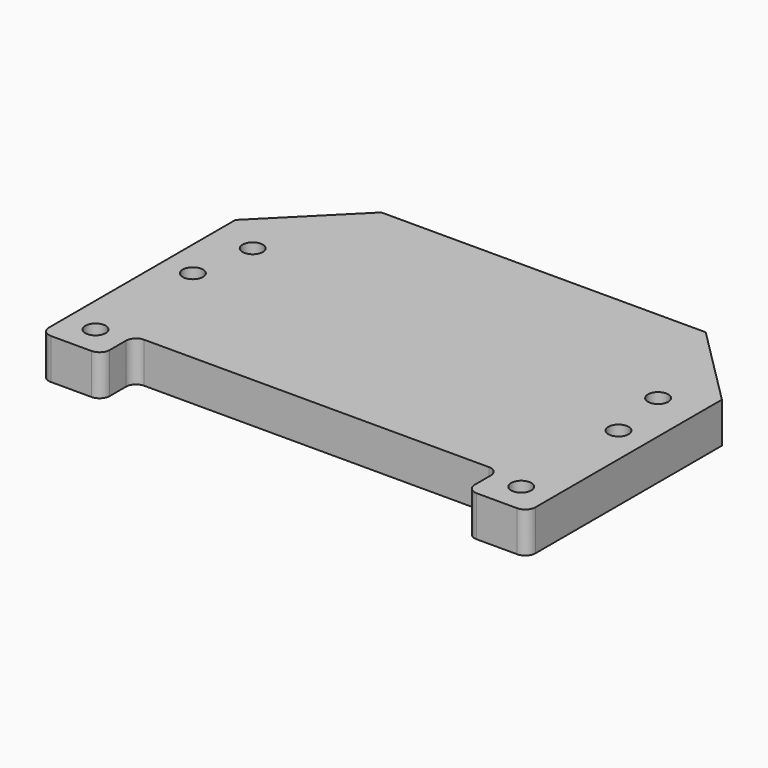
from build123d import *

# Parameters (mm, degrees)
F0_W           = 304.8
F0_H           = 203.2
F1_DEPTH       = 25.4
F3_SIZE        = 50.8
F4_W           = 228.6
F4_H           = 25.4
F5_DEPTH       = 25.4
F6_R           = 6.35
F8_D           = 9.525
F8_CBORE_D     = 12.7
F8_CBORE_DEPTH = 12.7
F10_D          = 12.7
F10_DEPTH      = 12.7
F10_TIP        = 3.8154649308


with BuildPart() as f1:
    # F0 (on Top) → F1 (new body)
    with BuildSketch(Plane.XY):
        with Locations((0.9524989873, 1.4589339421)):
            Rectangle(F0_W, F0_H)
    extrude(amount=F1_DEPTH)

    # F3
    f3_edges = [f1.edges().sort_by_distance(p)[0] for p in [
        (-151.447501, 103.058934, 12.7),
        (153.352499, 103.058934, 12.7),
    ]]
    chamfer(f3_edges, length=F3_SIZE)

    # F4 (on face) → F5 (cut)
    with BuildSketch(Plane.XZ.offset(100.1410660579)):
        with Locations((0.9524989873, 12.7)):
            Rectangle(F4_W, F4_H)
    extrude(amount=-F5_DEPTH, mode=Mode.SUBTRACT)

    # F6
    f6_edges = [f1.edges().sort_by_distance(p)[0] for p in [
        (-113.347501, -100.141066, 12.7),
        (-113.347501, -74.741066, 12.7),
        (115.252499, -74.741066, 12.7),
        (115.252499, -100.141066, 12.7),
        (153.352499, -100.141066, 12.7),
        (-151.447501, -100.141066, 12.7),
    ]]
    fillet(f6_edges, radius=F6_R)

    # F8 (through all)
    with Locations(Plane.XY.offset(25.4)):
        with Locations((-132.3975010127, -81.0910660579), (-132.3975010127, -4.8910660579), (134.3024989873, -4.8910660579), (134.3024989873, -81.0910660579)):
            CounterBoreHole(F8_D / 2, F8_CBORE_D / 2, F8_CBORE_DEPTH)

    # F10
    with Locations(Plane.XY.offset(25.4)):
        with Locations((-126.0475010127, 34.0471339421), (127.9524989873, 34.0471339421)):
            Hole(F10_D / 2, depth=F10_DEPTH)
            with Locations((0, 0, -(F10_DEPTH + F10_TIP / 2))):  # 118° drill point
                Cone(0, F10_D / 2, F10_TIP, mode=Mode.SUBTRACT)


solid = f1.part
